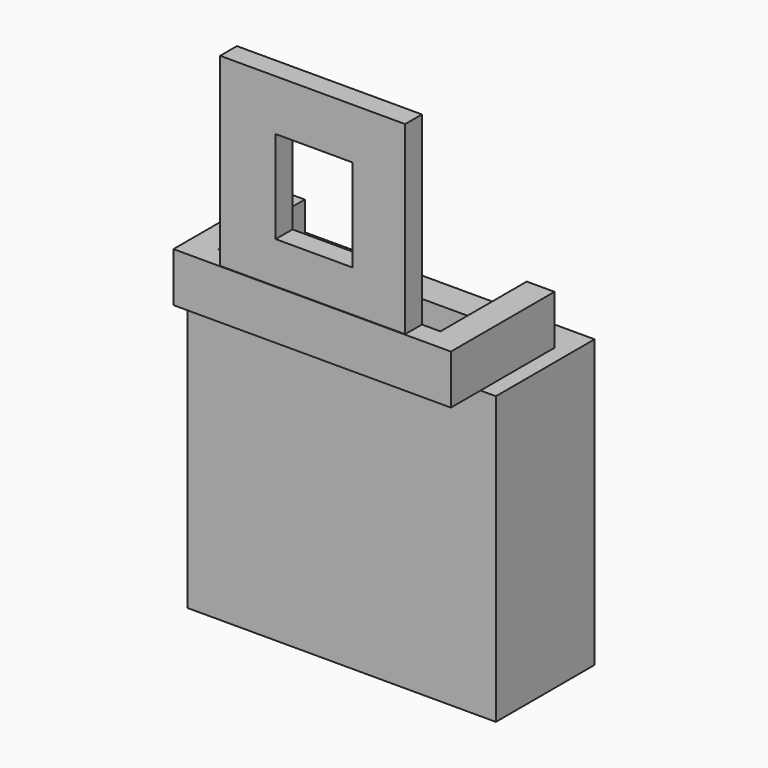
from build123d import *

# Parameters (mm, degrees)
SKETCH_W        = 10
SKETCH_H        = 9.3
PAD_DEPTH       = 4
SKETCH001_W     = 9
SKETCH001_H     = 1.6
PAD001_DEPTH    = 3
SKETCH002_W     = 9
SKETCH002_H     = 1.6
PAD002_DEPTH    = 1.2
SKETCH003_W     = 7.2
SKETCH003_H     = 3.5
POCKET_DEPTH    = 1.8
POCKET001_DEPTH = 8
SKETCH005_W     = 6
SKETCH005_H     = 0.68
PAD003_DEPTH    = 6
SKETCH006_W     = 2.5
SKETCH006_H     = 3
POCKET002_DEPTH = 5


with BuildPart() as part:
    # Sketch → Pad (new body)
    with BuildSketch(Plane.XZ):
        with Locations((5, 4.65)):
            Rectangle(SKETCH_W, SKETCH_H)
    extrude(amount=PAD_DEPTH)

    # Sketch001 (on Face6 of Pad) → Pad001 (join)
    with BuildSketch(Plane.XZ.offset(4)):
        with Locations((5, 10.1)):
            Rectangle(SKETCH001_W, SKETCH001_H)
    extrude(amount=-PAD001_DEPTH)

    # Sketch002 (on Face10 of Pad001) → Pad002 (join)
    with BuildSketch(Plane.XZ.offset(4)):
        with Locations((5, 10.1)):
            Rectangle(SKETCH002_W, SKETCH002_H)
    extrude(amount=PAD002_DEPTH)

    # Sketch003 (on Face12 of Pad002) → Pocket (cut)
    with BuildSketch(Plane(origin=(0, 0, 10.9), x_dir=(-1, 0, 0), z_dir=(0, 0, 1))):
        with Locations((-5, 2.75)):
            Rectangle(SKETCH003_W, SKETCH003_H)
    extrude(amount=-POCKET_DEPTH, mode=Mode.SUBTRACT)

    # Sketch004 (on Face9 of Pocket) → Pocket001 (cut)
    with BuildSketch(Plane(origin=(0, 0, 9.1), x_dir=(-1, 0, 0), z_dir=(0, 0, 1))):
        Polygon((-8.6, 1.5), (-7.6, 1.5), (-7.6, 1), (-2.4, 1), (-2.4, 1.5), (-1.4, 1.5), (-1.4, 2), (-2.4, 2), (-2.4, 2.5), (-7.85, 2.5), (-7.85, 2), (-8.6, 2), align=None)
    extrude(amount=-POCKET001_DEPTH, mode=Mode.SUBTRACT)

    # Sketch005 (on Face21 of Pocket001) → Pad003 (join)
    with BuildSketch(Plane(origin=(0, 0, 10.9), x_dir=(-1, 0, 0), z_dir=(0, 0, 1))):
        with Locations((-5, 4.84)):
            Rectangle(SKETCH005_W, SKETCH005_H)
    extrude(amount=PAD003_DEPTH)

    # Sketch006 (on Face30 of Pad003) → Pocket002 (cut)
    with BuildSketch(Plane.XZ.offset(5.18)):
        with Locations((5.05, 13.75)):
            Rectangle(SKETCH006_W, SKETCH006_H)
    extrude(amount=-POCKET002_DEPTH, mode=Mode.SUBTRACT)


solid = part.part
